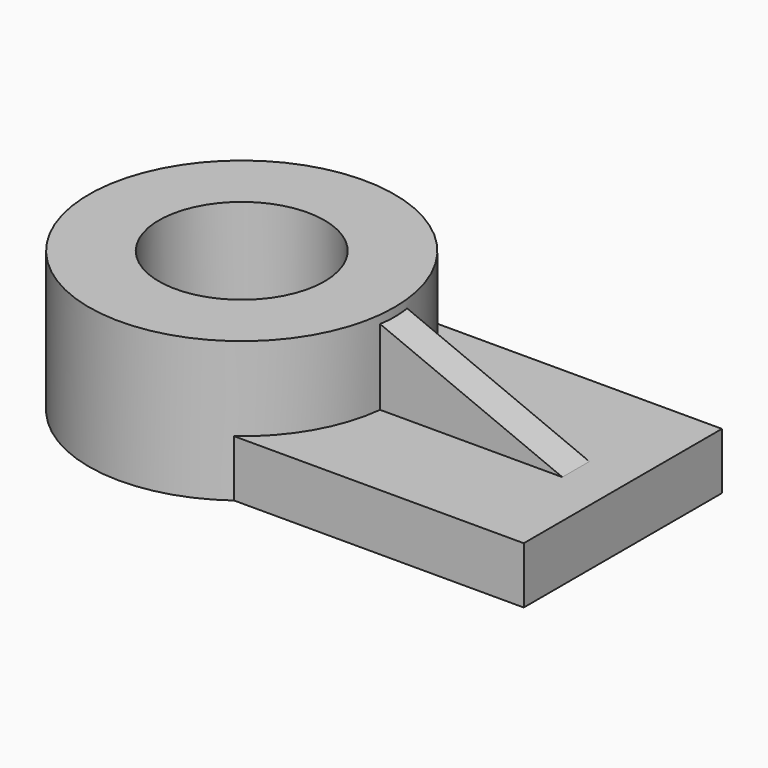
from build123d import *

# Parameters (mm, degrees)
F0_R          = 45.9121697242
F1_DEPTH      = 42.164
F2_W          = 74.4279101491
F2_H          = 17.0120932162
F3_DEPTH      = 114.3
F5_DEPTH      = 5.08
F5_DEPTH_BACK = 5.08
F6_R          = 24.8732317419
F7_DEPTH      = 42.165


with BuildPart() as f1:
    # F0 (on Top) → F1 (new body)
    with BuildSketch(Plane.XY):
        Circle(F0_R)
    extrude(amount=F1_DEPTH)

    # F2 (on Right) → F3 (join)
    with BuildSketch(Plane.YZ):
        with Locations((0.265814364, 8.5060466081)):
            Rectangle(F2_W, F2_H)
    extrude(amount=F3_DEPTH)

    # F4 (on Front) → F5 (join, two sides)
    with BuildSketch(Plane.XZ) as f5_sk:
        Polygon((42.707439512, 17.0120932162), (100.3890708089, 17.0120932162), (42.707439512, 40.9353487194), align=None)
    extrude(amount=F5_DEPTH)
    extrude(f5_sk.sketch, amount=-F5_DEPTH_BACK)

    # F6 (on face) → F7 (cut, through all)
    with BuildSketch(Plane.XY.offset(42.164)):
        Circle(F6_R)
    extrude(amount=-F7_DEPTH, mode=Mode.SUBTRACT)


solid = f1.part
